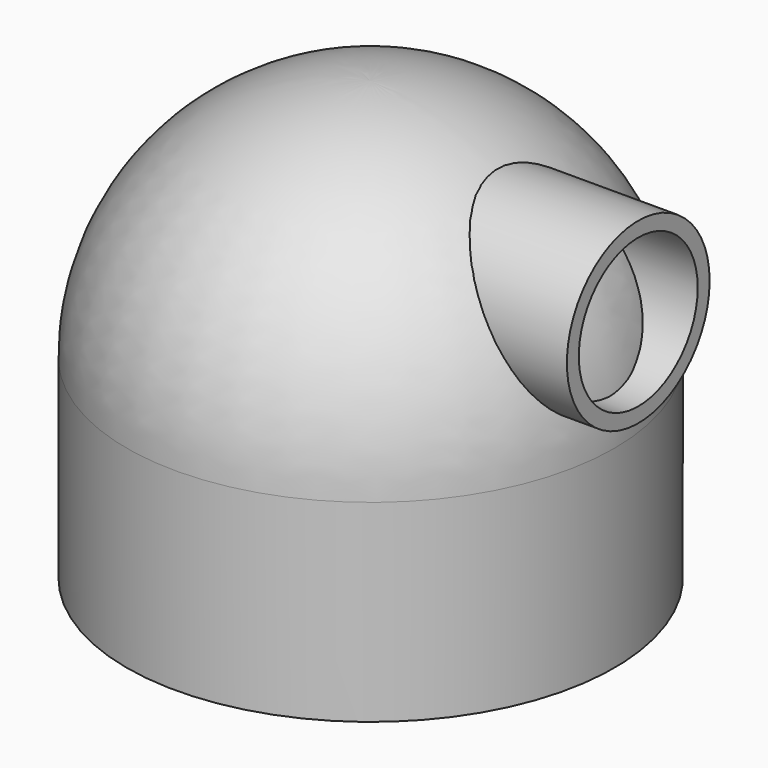
from build123d import *

# Parameters (mm, degrees)
SKETCH001_R   = 6
SKETCH001_R_2 = 5
PAD_DEPTH     = 18
PAD001_DEPTH  = 20


with BuildPart() as spout:
    # Sketch001 → Pad (new body)
    with BuildSketch(Plane.YZ):
        with Locations((0, 21)):
            Circle(SKETCH001_R)
        with Locations((0, 21)):
            Circle(SKETCH001_R_2, mode=Mode.SUBTRACT)
    extrude(amount=PAD_DEPTH)


with BuildPart() as slot:
    # Sketch002 → Pad001 (new body)
    with BuildSketch(Plane.YZ):
        Polygon((-8, 16), (8, 16), (8, 4), (6, 4), (6, -5), (-6, -5), (-6, 4), (-8, 4), align=None)
    extrude(amount=-PAD001_DEPTH)


with BuildPart() as cut:
    # Sketch → Revolution (revolve)
    with BuildSketch(Plane.XZ):
        with BuildLine():
            Line((14.4, 13.000009), (14.4, 0))
            Line((14.4, 0), (16.4, 0))
            Line((16.4, 0), (16.4, 13))
            ThreePointArc((16.4, 13), (11.596554, 24.596557), (0, 29.400009))
            Line((0, 29.400009), (0, 27.400009))
            ThreePointArc((14.4, 13.000009), (10.182337, 23.182346), (0, 27.400009))
        make_face()
    revolve(axis=Axis((0, 0, 0), (0, 0, 1)))

    # Cut: cut Slot
    add(slot.part, mode=Mode.SUBTRACT)


solid = Compound([spout.part, cut.part])
